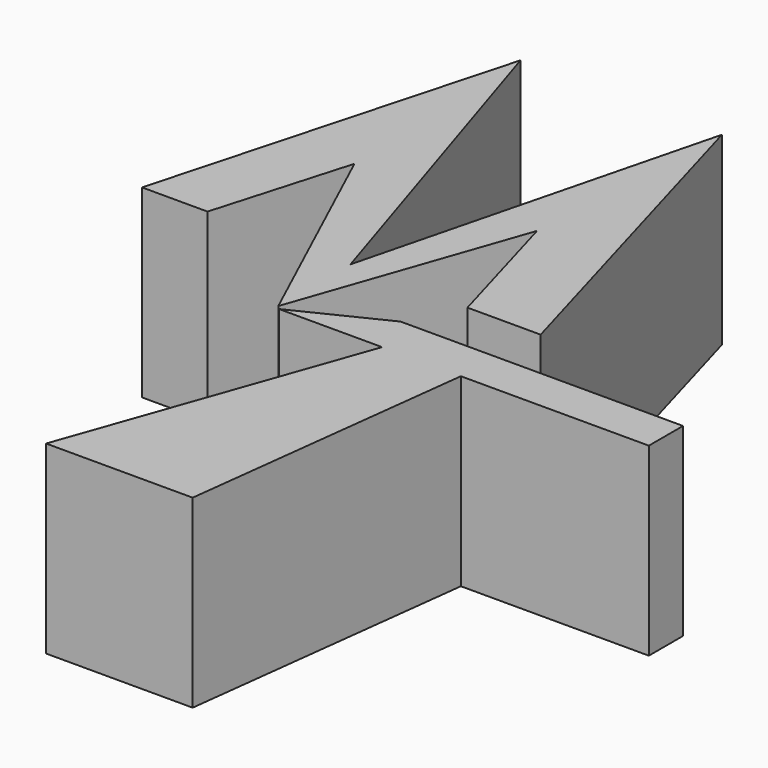
from build123d import *

# Parameters (mm, degrees)
F1_DEPTH = 25.4
F3_DEPTH = 25.4


with BuildPart() as f1:
    # F0 (on Top) → F1 (new body)
    with BuildSketch(Plane.XY):
        with BuildLine():
            add(Edge.make_bspline(
                [(0, 0), (4.419168, 16.139571), (8.838336, 32.279142), (13.257504, 48.418713)],
                knots=[0, 0, 0, 0, 50.200928, 50.200928, 50.200928, 50.200928], degree=3))
            Line((0, 0), (8.994412, 0))
            Line((8.994412, 0), (14.364212, 18.525805))
            Line((14.364212, 18.525805), (28.628522, -12.394215))
            Line((28.628522, -12.394215), (39.394563, 18.581529))
            Line((39.394563, 18.581529), (44.703573, 0))
            Line((44.703573, 0), (54.759262, 0))
            Line((54.759262, 0), (40.925339, 48.418713))
            Line((40.925339, 48.418713), (28.628522, 0))
            Line((28.628522, 0), (13.257504, 48.418713))
        make_face()
    extrude(amount=F1_DEPTH)


with BuildPart() as f3:
    # F2 (on Top) → F3 (new body)
    with BuildSketch(Plane.XY):
        Polygon((41.120518, -7.016588), (29.131159, -12.887516), (43.284501, -12.887516), (45.361572, -7.016588), align=None)
        Polygon((45.361572, -7.016588), (43.284501, -12.887516), (54.106556, -12.887516), (54.816652, -7.016588), align=None)
        Polygon((54.106556, -12.887516), (43.284501, -12.887516), (29.131159, -52.892517), (49.267903, -52.892517), align=None)
        Polygon((54.816652, -7.016588), (54.106556, -12.887516), (79.931159, -12.887516), (79.931159, -7.016588), align=None)
    extrude(amount=F3_DEPTH)


solid = Compound([f1.part, f3.part])
